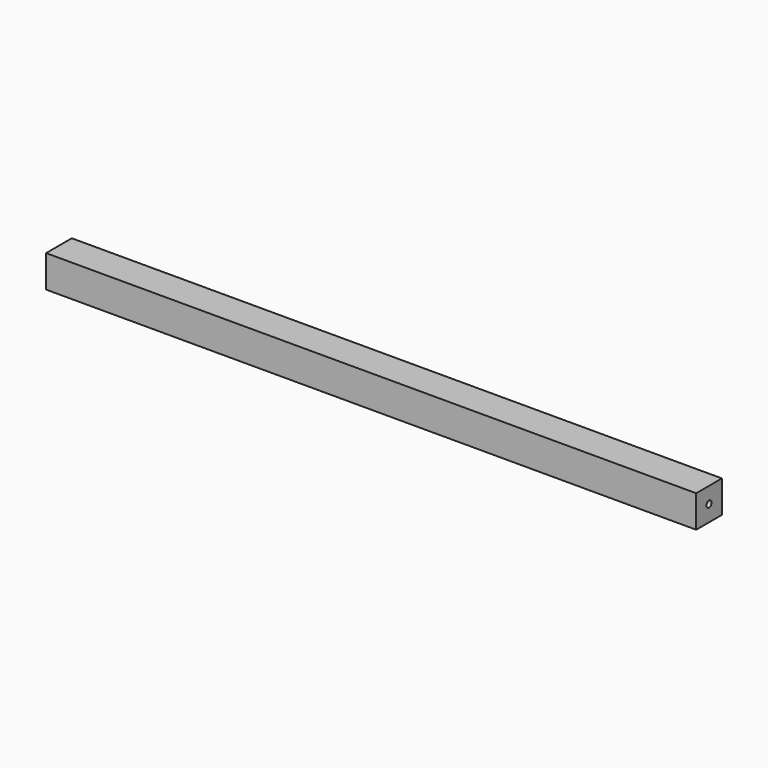
from build123d import *

# Parameters (mm, degrees)
F0_W     = 45
F0_H     = 45
F0_R     = 4.5
F1_DEPTH = 910


with BuildPart() as f1:
    # F0 (on Right) → F1 (new body)
    with BuildSketch(Plane.YZ):
        Rectangle(F0_W, F0_H)
        Circle(F0_R, mode=Mode.SUBTRACT)
    extrude(amount=F1_DEPTH)


solid = f1.part
